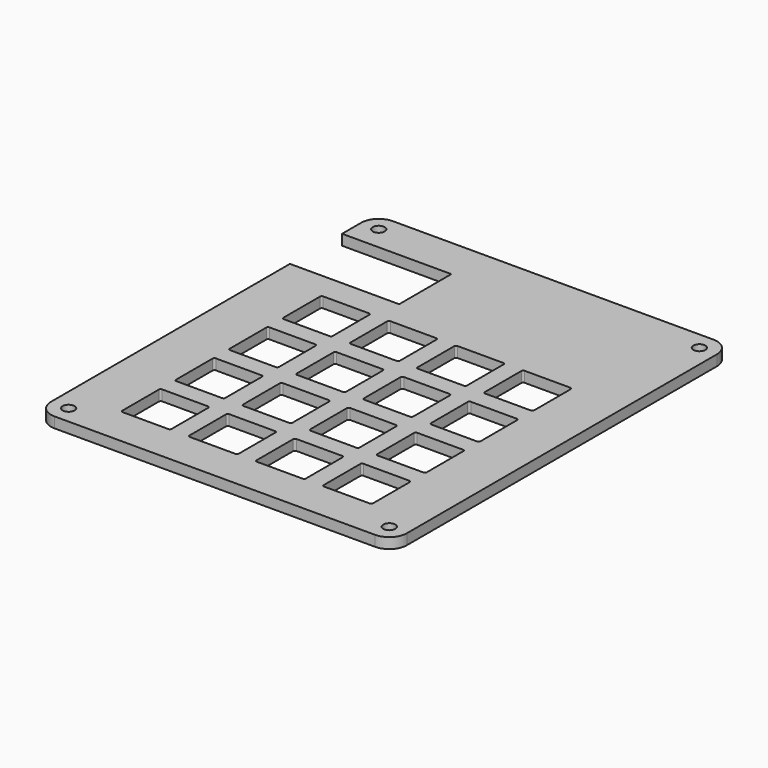
from build123d import *

# Parameters (mm, degrees)
SKETCH001_R  = 1.7
PAD_DEPTH    = 3
POCKET_DEPTH = 10


with BuildPart() as part:
    # Sketch001 → Pad (new body)
    with BuildSketch(Plane.XY):
        with BuildLine():
            Line((-12.49, 30.31), (-12.49, 23.56))
            Line((18.51, 23.56), (-12.49, 23.56))
            Line((18.51, 5.06), (18.51, 23.56))
            Line((-12.49, 5.06), (18.51, 5.06))
            Line((-12.49, 5.06), (-12.49, -79.69))
            ThreePointArc((-12.49, -79.69), (-11.025534, -83.225534), (-7.49, -84.69))
            Line((-7.49, -84.69), (83.51, -84.69))
            ThreePointArc((83.51, -84.69), (87.045534, -83.225534), (88.51, -79.69))
            Line((88.51, -79.69), (88.51, 30.31))
            ThreePointArc((88.51, 30.31), (87.045534, 33.845534), (83.51, 35.31))
            Line((83.51, 35.31), (-7.49, 35.31))
            ThreePointArc((-7.49, 35.31), (-11.025534, 33.845534), (-12.49, 30.31))
        make_face()
        with Locations((-7.49, -79.69)):
            Circle(SKETCH001_R, mode=Mode.SUBTRACT)
        with Locations((83.51, -79.69)):
            Circle(SKETCH001_R, mode=Mode.SUBTRACT)
        with Locations((83.51, 30.31)):
            Circle(SKETCH001_R, mode=Mode.SUBTRACT)
        with Locations((-7.49, 30.31)):
            Circle(SKETCH001_R, mode=Mode.SUBTRACT)
    extrude(amount=PAD_DEPTH)

    # Sketch → Pocket (cut)
    with BuildSketch(Plane.XY):
        with BuildLine():
            Line((3.025, -2.525), (16.025, -2.525))
            ThreePointArc((16.525, -3.025), (16.378553, -2.671447), (16.025, -2.525))
            Line((16.525, -3.025), (16.525, -16.025))
            ThreePointArc((16.025, -16.525), (16.378553, -16.378553), (16.525, -16.025))
            Line((3.025, -16.525), (16.025, -16.525))
            ThreePointArc((2.525, -16.025), (2.671447, -16.378553), (3.025, -16.525))
            Line((2.525, -3.025), (2.525, -16.025))
            ThreePointArc((3.025, -2.525), (2.671447, -2.671447), (2.525, -3.025))
        make_face()
        with BuildLine():
            Line((22.075, -2.525), (35.075, -2.525))
            ThreePointArc((35.575, -3.025), (35.428553, -2.671447), (35.075, -2.525))
            Line((35.575, -3.025), (35.575, -16.025))
            ThreePointArc((35.075, -16.525), (35.428553, -16.378553), (35.575, -16.025))
            Line((22.075, -16.525), (35.075, -16.525))
            ThreePointArc((21.575, -16.025), (21.721447, -16.378553), (22.075, -16.525))
            Line((21.575, -3.025), (21.575, -16.025))
            ThreePointArc((22.075, -2.525), (21.721447, -2.671447), (21.575, -3.025))
        make_face()
        with BuildLine():
            Line((41.125, -2.525), (54.125, -2.525))
            ThreePointArc((54.625, -3.025), (54.478553, -2.671447), (54.125, -2.525))
            Line((54.625, -3.025), (54.625, -16.025))
            ThreePointArc((54.125, -16.525), (54.478553, -16.378553), (54.625, -16.025))
            Line((41.125, -16.525), (54.125, -16.525))
            ThreePointArc((40.625, -16.025), (40.771447, -16.378553), (41.125, -16.525))
            Line((40.625, -3.025), (40.625, -16.025))
            ThreePointArc((41.125, -2.525), (40.771447, -2.671447), (40.625, -3.025))
        make_face()
        with BuildLine():
            Line((60.175, -2.525), (73.175, -2.525))
            ThreePointArc((73.675, -3.025), (73.528553, -2.671447), (73.175, -2.525))
            Line((73.675, -3.025), (73.675, -16.025))
            ThreePointArc((73.175, -16.525), (73.528553, -16.378553), (73.675, -16.025))
            Line((60.175, -16.525), (73.175, -16.525))
            ThreePointArc((59.675, -16.025), (59.821447, -16.378553), (60.175, -16.525))
            Line((59.675, -3.025), (59.675, -16.025))
            ThreePointArc((60.175, -2.525), (59.821447, -2.671447), (59.675, -3.025))
        make_face()
        with BuildLine():
            Line((3.025, -21.575), (16.025, -21.575))
            ThreePointArc((16.525, -22.075), (16.378553, -21.721447), (16.025, -21.575))
            Line((16.525, -22.075), (16.525, -35.075))
            ThreePointArc((16.025, -35.575), (16.378553, -35.428553), (16.525, -35.075))
            Line((3.025, -35.575), (16.025, -35.575))
            ThreePointArc((2.525, -35.075), (2.671447, -35.428553), (3.025, -35.575))
            Line((2.525, -22.075), (2.525, -35.075))
            ThreePointArc((3.025, -21.575), (2.671447, -21.721447), (2.525, -22.075))
        make_face()
        with BuildLine():
            Line((22.075, -21.575), (35.075, -21.575))
            ThreePointArc((35.575, -22.075), (35.428553, -21.721447), (35.075, -21.575))
            Line((35.575, -22.075), (35.575, -35.075))
            ThreePointArc((35.075, -35.575), (35.428553, -35.428553), (35.575, -35.075))
            Line((22.075, -35.575), (35.075, -35.575))
            ThreePointArc((21.575, -35.075), (21.721447, -35.428553), (22.075, -35.575))
            Line((21.575, -22.075), (21.575, -35.075))
            ThreePointArc((22.075, -21.575), (21.721447, -21.721447), (21.575, -22.075))
        make_face()
        with BuildLine():
            Line((41.125, -21.575), (54.125, -21.575))
            ThreePointArc((54.625, -22.075), (54.478553, -21.721447), (54.125, -21.575))
            Line((54.625, -22.075), (54.625, -35.075))
            ThreePointArc((54.125, -35.575), (54.478553, -35.428553), (54.625, -35.075))
            Line((41.125, -35.575), (54.125, -35.575))
            ThreePointArc((40.625, -35.075), (40.771447, -35.428553), (41.125, -35.575))
            Line((40.625, -22.075), (40.625, -35.075))
            ThreePointArc((41.125, -21.575), (40.771447, -21.721447), (40.625, -22.075))
        make_face()
        with BuildLine():
            Line((60.175, -21.575), (73.175, -21.575))
            ThreePointArc((73.675, -22.075), (73.528553, -21.721447), (73.175, -21.575))
            Line((73.675, -22.075), (73.675, -35.075))
            ThreePointArc((73.175, -35.575), (73.528553, -35.428553), (73.675, -35.075))
            Line((60.175, -35.575), (73.175, -35.575))
            ThreePointArc((59.675, -35.075), (59.821447, -35.428553), (60.175, -35.575))
            Line((59.675, -22.075), (59.675, -35.075))
            ThreePointArc((60.175, -21.575), (59.821447, -21.721447), (59.675, -22.075))
        make_face()
        with BuildLine():
            Line((3.025, -40.625), (16.025, -40.625))
            ThreePointArc((16.525, -41.125), (16.378553, -40.771447), (16.025, -40.625))
            Line((16.525, -41.125), (16.525, -54.125))
            ThreePointArc((16.025, -54.625), (16.378553, -54.478553), (16.525, -54.125))
            Line((3.025, -54.625), (16.025, -54.625))
            ThreePointArc((2.525, -54.125), (2.671447, -54.478553), (3.025, -54.625))
            Line((2.525, -41.125), (2.525, -54.125))
            ThreePointArc((3.025, -40.625), (2.671447, -40.771447), (2.525, -41.125))
        make_face()
        with BuildLine():
            Line((22.075, -40.625), (35.075, -40.625))
            ThreePointArc((35.575, -41.125), (35.428553, -40.771447), (35.075, -40.625))
            Line((35.575, -41.125), (35.575, -54.125))
            ThreePointArc((35.075, -54.625), (35.428553, -54.478553), (35.575, -54.125))
            Line((22.075, -54.625), (35.075, -54.625))
            ThreePointArc((21.575, -54.125), (21.721447, -54.478553), (22.075, -54.625))
            Line((21.575, -41.125), (21.575, -54.125))
            ThreePointArc((22.075, -40.625), (21.721447, -40.771447), (21.575, -41.125))
        make_face()
        with BuildLine():
            Line((41.125, -40.625), (54.125, -40.625))
            ThreePointArc((54.625, -41.125), (54.478553, -40.771447), (54.125, -40.625))
            Line((54.625, -41.125), (54.625, -54.125))
            ThreePointArc((54.125, -54.625), (54.478553, -54.478553), (54.625, -54.125))
            Line((41.125, -54.625), (54.125, -54.625))
            ThreePointArc((40.625, -54.125), (40.771447, -54.478553), (41.125, -54.625))
            Line((40.625, -41.125), (40.625, -54.125))
            ThreePointArc((41.125, -40.625), (40.771447, -40.771447), (40.625, -41.125))
        make_face()
        with BuildLine():
            Line((60.175, -40.625), (73.175, -40.625))
            ThreePointArc((73.675, -41.125), (73.528553, -40.771447), (73.175, -40.625))
            Line((73.675, -41.125), (73.675, -54.125))
            ThreePointArc((73.175, -54.625), (73.528553, -54.478553), (73.675, -54.125))
            Line((60.175, -54.625), (73.175, -54.625))
            ThreePointArc((59.675, -54.125), (59.821447, -54.478553), (60.175, -54.625))
            Line((59.675, -41.125), (59.675, -54.125))
            ThreePointArc((60.175, -40.625), (59.821447, -40.771447), (59.675, -41.125))
        make_face()
        with BuildLine():
            Line((3.025, -59.675), (16.025, -59.675))
            ThreePointArc((16.525, -60.175), (16.378553, -59.821447), (16.025, -59.675))
            Line((16.525, -60.175), (16.525, -73.175))
            ThreePointArc((16.025, -73.675), (16.378553, -73.528553), (16.525, -73.175))
            Line((3.025, -73.675), (16.025, -73.675))
            ThreePointArc((2.525, -73.175), (2.671447, -73.528553), (3.025, -73.675))
            Line((2.525, -60.175), (2.525, -73.175))
            ThreePointArc((3.025, -59.675), (2.671447, -59.821447), (2.525, -60.175))
        make_face()
        with BuildLine():
            Line((22.075, -59.675), (35.075, -59.675))
            ThreePointArc((35.575, -60.175), (35.428553, -59.821447), (35.075, -59.675))
            Line((35.575, -60.175), (35.575, -73.175))
            ThreePointArc((35.075, -73.675), (35.428553, -73.528553), (35.575, -73.175))
            Line((22.075, -73.675), (35.075, -73.675))
            ThreePointArc((21.575, -73.175), (21.721447, -73.528553), (22.075, -73.675))
            Line((21.575, -60.175), (21.575, -73.175))
            ThreePointArc((22.075, -59.675), (21.721447, -59.821447), (21.575, -60.175))
        make_face()
        with BuildLine():
            Line((41.125, -59.675), (54.125, -59.675))
            ThreePointArc((54.625, -60.175), (54.478553, -59.821447), (54.125, -59.675))
            Line((54.625, -60.175), (54.625, -73.175))
            ThreePointArc((54.125, -73.675), (54.478553, -73.528553), (54.625, -73.175))
            Line((41.125, -73.675), (54.125, -73.675))
            ThreePointArc((40.625, -73.175), (40.771447, -73.528553), (41.125, -73.675))
            Line((40.625, -60.175), (40.625, -73.175))
            ThreePointArc((41.125, -59.675), (40.771447, -59.821447), (40.625, -60.175))
        make_face()
        with BuildLine():
            Line((60.175, -59.675), (73.175, -59.675))
            ThreePointArc((73.675, -60.175), (73.528553, -59.821447), (73.175, -59.675))
            Line((73.675, -60.175), (73.675, -73.175))
            ThreePointArc((73.175, -73.675), (73.528553, -73.528553), (73.675, -73.175))
            Line((60.175, -73.675), (73.175, -73.675))
            ThreePointArc((59.675, -73.175), (59.821447, -73.528553), (60.175, -73.675))
            Line((59.675, -60.175), (59.675, -73.175))
            ThreePointArc((60.175, -59.675), (59.821447, -59.821447), (59.675, -60.175))
        make_face()
    extrude(amount=POCKET_DEPTH, mode=Mode.SUBTRACT)


solid = part.part
